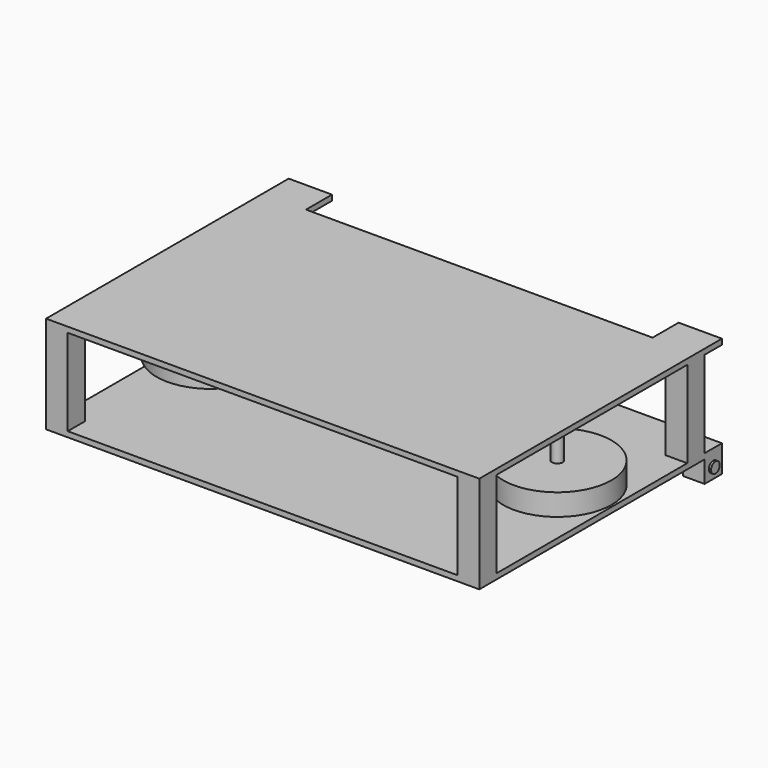
from build123d import *

# Parameters (mm, degrees)
F0_W          = 508
F0_H          = 355.6
F1_DEPTH      = 6.35
F2_W          = 25.4
F2_H          = 25.4
F3_DEPTH      = 25.4
F4_W          = 25.4
F4_H          = 25.4
F5_DEPTH      = 25.4
F6_R          = 6.35
F7_DEPTH      = 2.54
F7_DEPTH_BACK = 510.54
F8_W          = 25.4
F8_H          = 25.4
F9_DEPTH      = 101.6
F10_W         = 508
F10_H         = 355.6
F11_DEPTH     = 6.35
F13_START     = 12.7
F12_R         = 63.5
F13_DEPTH     = 25.4
F14_R         = 6.35
F15_DEPTH     = 101.6
F16_W         = 406.4
F16_H         = 38.1
F17_DEPTH     = 6.35


with BuildPart() as f1:
    # F0 (on Top) → F1 (new body)
    with BuildSketch(Plane.XY):
        Rectangle(F0_W, F0_H)
    extrude(amount=F1_DEPTH)

    # F2 (on face) → F3 (join)
    with BuildSketch(Plane.YZ.offset(254)):
        with Locations((165.1, -12.7)):
            Rectangle(F2_W, F2_H)
    extrude(amount=-F3_DEPTH)

    # F4 (on face) → F5 (join)
    with BuildSketch(Plane(origin=(-254, 0, 0), x_dir=(0, -1, 0), z_dir=(-1, 0, 0))):
        with Locations((-165.1, -12.7)):
            Rectangle(F4_W, F4_H)
    extrude(amount=-F5_DEPTH)

    # F6 (on face) → F7 (join, two sides)
    with BuildSketch(Plane(origin=(-254, 0, 0), x_dir=(0, -1, 0), z_dir=(-1, 0, 0))) as f7_sk:
        with Locations((-165.1, -12.7)):
            Circle(F6_R)
    extrude(amount=F7_DEPTH)
    extrude(f7_sk.sketch, amount=-F7_DEPTH_BACK)

    # F8 (on face) → F9 (join)
    with BuildSketch(Plane.XY.offset(6.35)):
        with Locations((241.3, -165.1)):
            Rectangle(F8_W, F8_H)
        with Locations((-241.3, -165.1)):
            Rectangle(F8_W, F8_H)
        with Locations((241.3, 139.7)):
            Rectangle(F8_W, F8_H)
        with Locations((-241.3, 139.7)):
            Rectangle(F8_W, F8_H)
    extrude(amount=F9_DEPTH)

    # F10 (on face) → F11 (join)
    with BuildSketch(Plane.XY.offset(107.95)):
        Rectangle(F10_W, F10_H)
    extrude(amount=F11_DEPTH)

    # F14 (on face) → F15 (join)
    with BuildSketch(Plane.XY.offset(6.35)):
        with Locations((203.2, 0)):
            Circle(F14_R)
        with Locations((-203.2, 0)):
            Circle(F14_R)
    extrude(amount=F15_DEPTH)

    # F16 (on face) → F17 (cut)
    with BuildSketch(Plane.XY.offset(114.3)):
        with Locations((0, 158.75)):
            Rectangle(F16_W, F16_H)
    extrude(amount=-F17_DEPTH, mode=Mode.SUBTRACT)


with BuildPart() as f13:
    # F12 (on face) → F13 (new body)
    with BuildSketch(Plane.XY.offset(6.35).offset(F13_START)):
        with Locations((-203.2, 0)):
            Circle(F12_R)
    extrude(amount=F13_DEPTH)


with BuildPart() as f13b:
    # F12 (on face) → F13, piece 2 (new body)
    with BuildSketch(Plane.XY.offset(6.35).offset(F13_START)):
        with Locations((203.2, 0)):
            Circle(F12_R)
    extrude(amount=F13_DEPTH)


solid = Compound([f1.part, f13.part, f13b.part])
